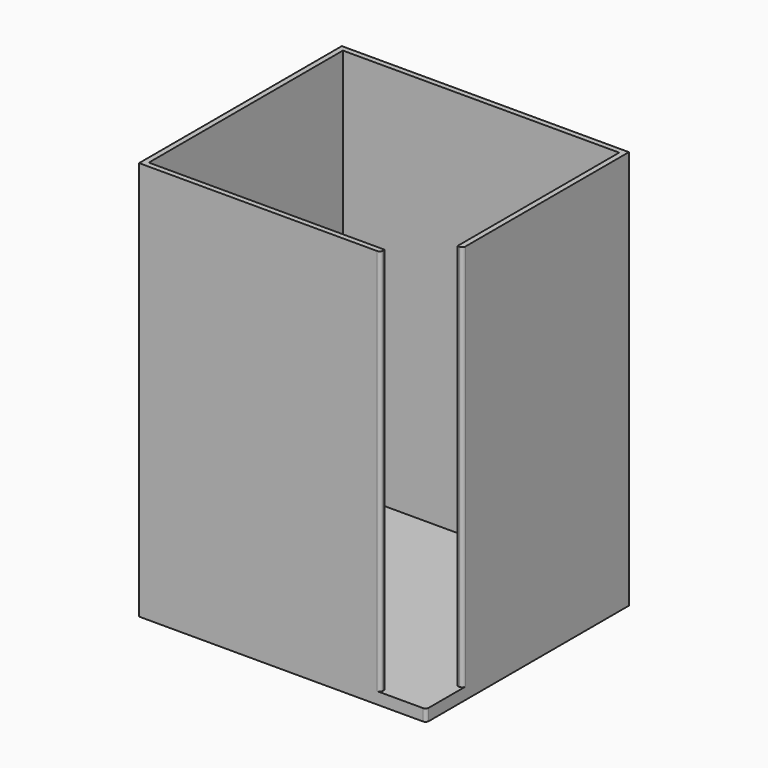
from build123d import *

# Parameters (mm, degrees)
F1_DEPTH = 3.5
F3_DEPTH = 115


with BuildPart() as f1:
    # F0 (on Top) → F1 (new body)
    with BuildSketch(Plane.XY):
        with BuildLine():
            Line((82.8955, 28.39768), (-2.3045, 28.39768))
            Line((-2.3045, 28.39768), (-2.3045, -46.80232))
            Line((-2.3045, -46.80232), (81.958594, -46.80232))
            ThreePointArc((81.958594, -46.80232), (82.621087, -46.527906), (82.8955, -45.865413))
            Line((82.8955, -45.865413), (82.8955, 28.39768))
        make_face()
    extrude(amount=F1_DEPTH)

    # F2 (on face) → F3 (join)
    with BuildSketch(Plane.XY.offset(3.5)):
        with BuildLine():
            Line((69.2955, -45.865413), (69.2955, -45.20232))
            Line((69.2955, -45.20232), (-0.7045, -45.20232))
            Line((-0.7045, -45.20232), (-0.7045, 26.79768))
            Line((-0.7045, 26.79768), (81.2955, 26.79768))
            Line((81.2955, 26.79768), (81.2955, -33.20232))
            Line((81.2955, -33.20232), (81.958594, -33.20232))
            ThreePointArc((81.958594, -33.20232), (82.621087, -32.927906), (82.8955, -32.265413))
            Line((82.8955, -32.265413), (82.8955, 28.39768))
            Line((82.8955, 28.39768), (-2.3045, 28.39768))
            Line((-2.3045, 28.39768), (-2.3045, -46.80232))
            Line((-2.3045, -46.80232), (68.358594, -46.80232))
            ThreePointArc((68.358594, -46.80232), (69.021087, -46.527906), (69.2955, -45.865413))
        make_face()
    extrude(amount=F3_DEPTH)


solid = f1.part
